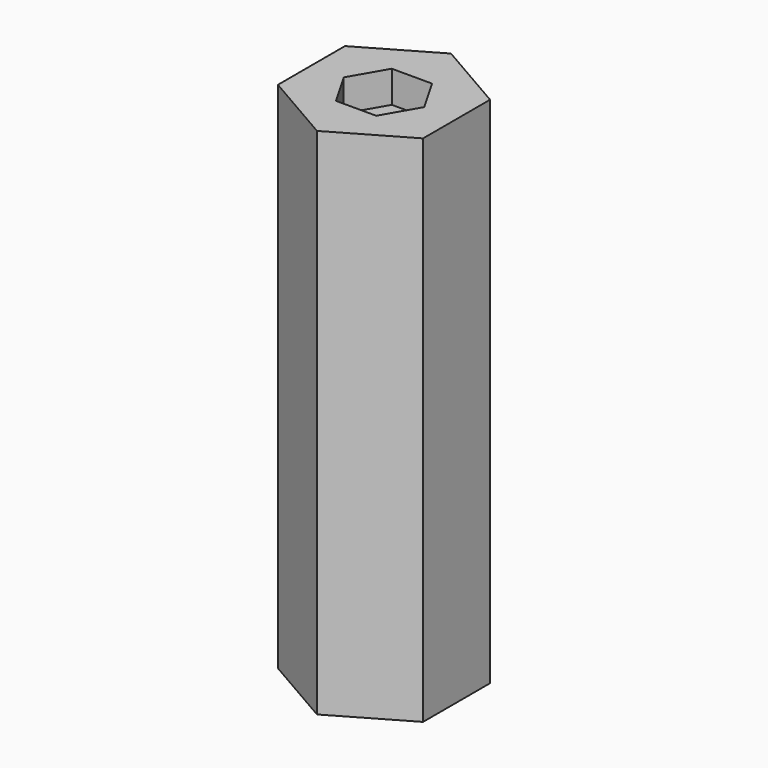
from build123d import *

# Parameters (mm, degrees)
F1_DEPTH       = 32
F3_D           = 3
F3_DEPTH       = 40
F3_CBORE_D     = 3
F3_CBORE_DEPTH = 40
F3_TIP         = 0.9012909285
F4_DEPTH       = 10
F6_DEPTH       = 2.6


with BuildPart() as f1:
    # F0 (on Top) → F1 (new body)
    with BuildSketch(Plane.XY):
        Polygon((-5.9322740159, -3.425), (0, -6.85), (5.9322740159, -3.425), (5.9322740159, 3.425), (0, 6.85), (-5.9322740159, 3.425), align=None)
    extrude(amount=F1_DEPTH)

    # F3
    with Locations(Plane.XY.offset(32)):
        with Locations((0, 0)):
            CounterBoreHole(F3_D / 2, F3_CBORE_D / 2, F3_CBORE_DEPTH, depth=F3_DEPTH)
            with Locations((0, 0, -(F3_DEPTH + F3_TIP / 2))):  # 118° drill point
                Cone(0, F3_D / 2, F3_TIP, mode=Mode.SUBTRACT)

    # F4 (add): a face of the model
    f4_faces = [f1.faces().sort_by_distance(p)[0] for p in [
        (-5.7510400511, 0, 32),
    ]]
    extrude(f4_faces, amount=F4_DEPTH)

    # F5 (on face) → F6 (cut)
    with BuildSketch(Plane.XY.offset(42)):
        Polygon((1.6454482672, 2.85), (-1.6454482672, 2.85), (-3.2908965344, 0), (-1.6454482672, -2.85), (1.6454482672, -2.85), (3.2908965344, 0), align=None)
    extrude(amount=-F6_DEPTH, mode=Mode.SUBTRACT)


solid = f1.part
